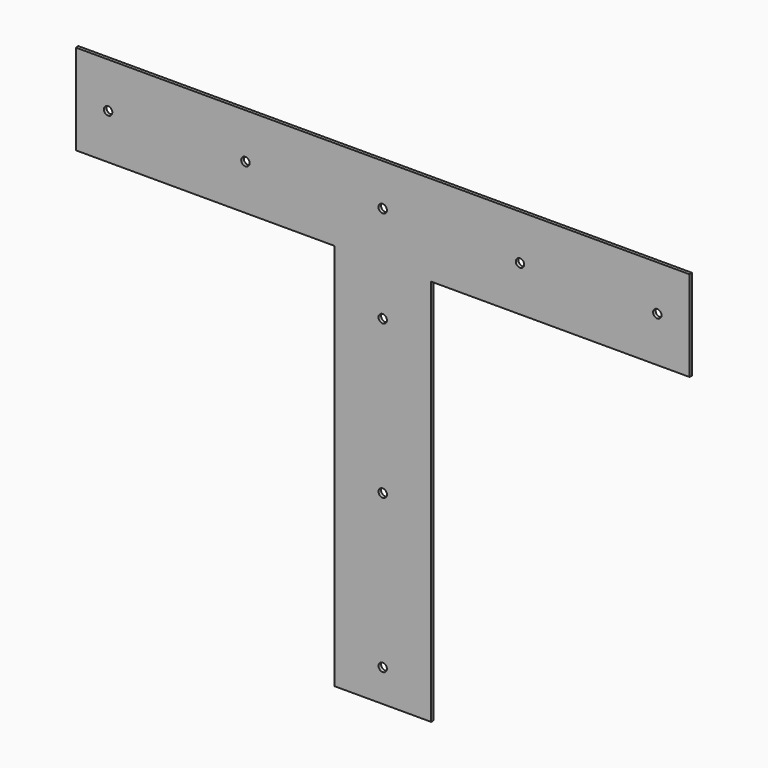
from build123d import *

# Parameters (mm, degrees)
F0_R     = 6.5
F1_DEPTH = 5


with BuildPart() as f1:
    # F0 (on Front) → F1 (new body)
    with BuildSketch(Plane.XZ):
        Polygon((-321.046383, 156.913972), (-321.046383, -443.086028), (-171.046383, -443.086028), (-171.046383, 156.913972), (228.953617, 156.913972), (228.953617, 296.913972), (-721.046383, 296.913972), (-721.046383, 156.913972), align=None)
        with Locations((-246.046383, -393.086028)):
            Circle(F0_R, mode=Mode.SUBTRACT)
        with Locations((-246.046383, -155.586028)):
            Circle(F0_R, mode=Mode.SUBTRACT)
        with Locations((-671.046383, 226.913972)):
            Circle(F0_R, mode=Mode.SUBTRACT)
        with Locations((-458.546383, 226.913972)):
            Circle(F0_R, mode=Mode.SUBTRACT)
        with Locations((-246.046383, 81.913972)):
            Circle(F0_R, mode=Mode.SUBTRACT)
        with Locations((-246.046383, 231.913972)):
            Circle(F0_R, mode=Mode.SUBTRACT)
        with Locations((-33.546383, 226.913972)):
            Circle(F0_R, mode=Mode.SUBTRACT)
        with Locations((178.953617, 226.913972)):
            Circle(F0_R, mode=Mode.SUBTRACT)
    extrude(amount=F1_DEPTH)


solid = f1.part
